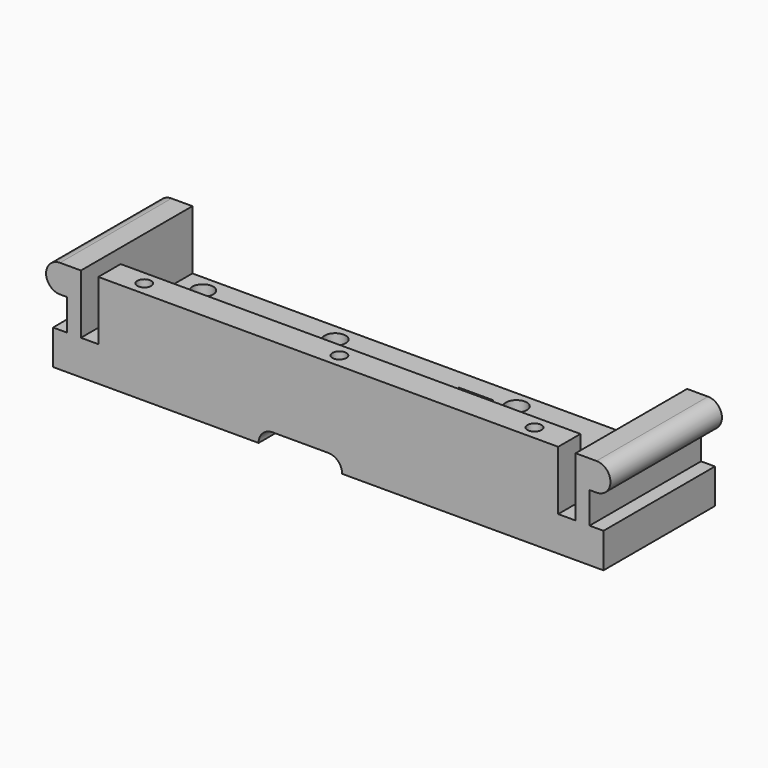
from build123d import *

# Parameters (mm, degrees)
PAD_DEPTH       = 20
SKETCH001_R     = 1.5
POCKET_DEPTH    = 174.036499
POCKET001_DEPTH = 20.001
SKETCH003_W     = 13.051827
SKETCH003_H     = 6.909791
SKETCH003_W_2   = 4.990405
SKETCH003_H_2   = 12.476008
POCKET002_DEPTH = 3
SKETCH004_W     = 2
SKETCH004_H     = 5
PAD001_DEPTH    = 20
SKETCH005_W     = 66
SKETCH005_H     = 4
PAD002_DEPTH    = 8.5
SKETCH006_R     = 1
POCKET003_DEPTH = 13.501


with BuildPart() as part:
    # Sketch → Pad (new body)
    with BuildSketch(Plane.XZ):
        with BuildLine():
            Line((-35.5, 5), (35.5, 5))
            Line((35.5, 5), (35.5, 13.5))
            Line((35.5, 13.5), (38.5, 13.5))
            ThreePointArc((38.5, 9.5), (40.5, 11.5), (38.5, 13.5))
            Line((38.5, 9.5), (37.5, 9.5))
            Line((37.5, 9.5), (37.5, 0))
            Line((37.5, 0), (-37.5, 0))
            Line((-37.5, 0), (-37.5, 9.5))
            Line((-37.5, 9.5), (-38.5, 9.5))
            ThreePointArc((-38.5, 13.5), (-40.5, 11.5), (-38.5, 9.5))
            Line((-38.5, 13.5), (-35.5, 13.5))
            Line((-35.5, 13.5), (-35.5, 5))
        make_face()
    extrude(amount=PAD_DEPTH)

    # Sketch001 (on Face3 of Pad) → Pocket (cut, through all)
    with BuildSketch(Plane(origin=(0, 0, 5), x_dir=(-1, 0, 0), z_dir=(0, 0, 1))):
        with Locations((-13, 2.5)):
            Circle(SKETCH001_R)
        with Locations((-32, 2.5)):
            Circle(SKETCH001_R)
    pocket = extrude(amount=-POCKET_DEPTH, mode=Mode.SUBTRACT)

    # Mirrored: Pocket across Sketch001 V_Axis
    add(pocket.mirror(Plane(origin=(0, 0, 5), x_dir=(0, 0, 1), z_dir=(-1, 0, 0))), mode=Mode.SUBTRACT)

    # Sketch002 (on Face5 of Mirrored) → Pocket001 (cut, through all)
    with BuildSketch(Plane.XZ.offset(20)):
        with BuildLine():
            ThreePointArc((-8, 2), (-10, 0), (-8, -2))
            Line((-8, -2), (0, -2))
            ThreePointArc((0, -2), (2, 0), (0, 2))
            Line((-8, 2), (0, 2))
        make_face()
    extrude(amount=-POCKET001_DEPTH, mode=Mode.SUBTRACT)

    # Sketch003 → Pocket002 (cut)
    with BuildSketch(Plane(origin=(0, 0, 5), x_dir=(-1, 0, 0), z_dir=(0, 0, 1))):
        with Locations((-22.41574, 9.693542)):
            Rectangle(SKETCH003_W, SKETCH003_H)
        with Locations((-7.636473, 9.213694)):
            Rectangle(SKETCH003_W_2, SKETCH003_H_2)
    extrude(amount=-POCKET002_DEPTH, mode=Mode.SUBTRACT)

    # Sketch004 (on Face5 of Pocket002) → Pad001 (join)
    with BuildSketch(Plane.XZ.offset(20)):
        with Locations((-38.5, 2.5)):
            Rectangle(SKETCH004_W, SKETCH004_H)
        with Locations((38.5, 2.5)):
            Rectangle(SKETCH004_W, SKETCH004_H)
    extrude(amount=-PAD001_DEPTH)

    # Sketch005 (on Face7 of Pad001) → Pad002 (join)
    with BuildSketch(Plane(origin=(0, 0, 5), x_dir=(-1, 0, 0), z_dir=(0, 0, 1))):
        with Locations((0, 18)):
            Rectangle(SKETCH005_W, SKETCH005_H)
    extrude(amount=PAD002_DEPTH)

    # Sketch006 (on Face37 of Pad002) → Pocket003 (cut, through all)
    with BuildSketch(Plane(origin=(0, 0, 13.5), x_dir=(-1, 0, 0), z_dir=(0, 0, 1))):
        with Locations((0, 18)):
            Circle(SKETCH006_R)
        with Locations((28, 18)):
            Circle(SKETCH006_R)
        with Locations((-28, 18)):
            Circle(SKETCH006_R)
    extrude(amount=-POCKET003_DEPTH, mode=Mode.SUBTRACT)


solid = part.part
